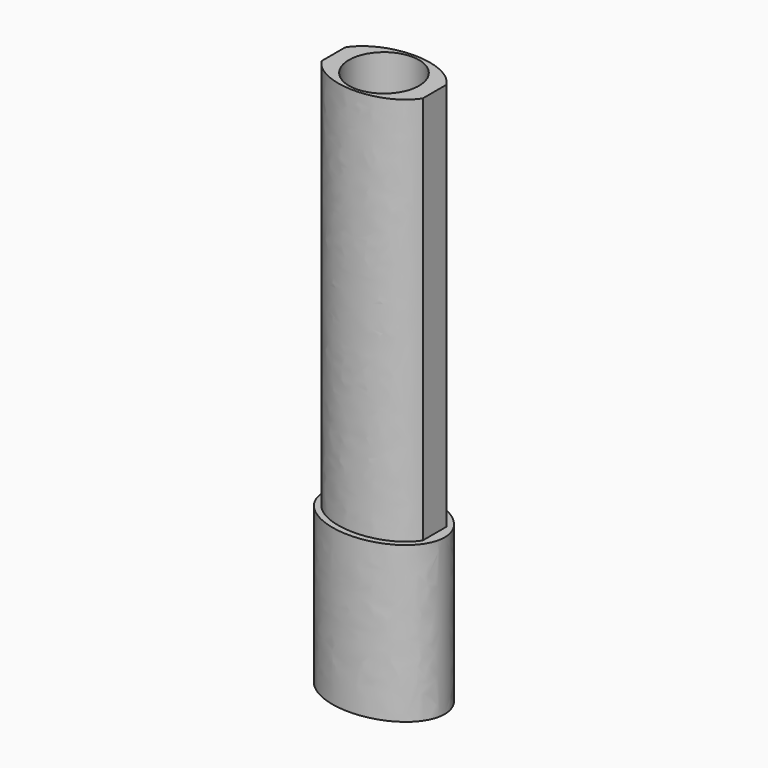
from build123d import *

# Parameters (mm, degrees)
F1_DEPTH = 40
F3_DEPTH = 100
F4_D     = 18


with BuildPart() as f1:
    # F0 (on Top) → F1 (new body)
    with BuildSketch(Plane.XY):
        with BuildLine():
            add(Edge.make_bspline(
                [(15.6, 0), (15.6, 19.4855715851), (-7.8, 9.7427857926), (-31.2, 0), (-7.8, -9.7427857926), (15.6, -19.4855715851), (15.6, 0)],
                knots=[0, 0, 0, 2.0943951024, 2.0943951024, 4.1887902048, 4.1887902048, 6.2831853072, 6.2831853072, 6.2831853072], degree=2, weights=[1, 0.5, 1, 0.5, 1, 0.5, 1]))
        make_face()
    extrude(amount=F1_DEPTH)

    # F2 (on face) → F3 (join)
    with BuildSketch(Plane.XY.offset(40)):
        with BuildLine():
            Line((13, -3.7754305964), (13, 3.7754305964))
            add(Edge.make_bspline(
                [(13, 3.7754305964), (0, 25.1792471276), (-13, 3.7754305964)],
                knots=[0.3976184106, 0.3976184106, 0.3976184106, 2.743974243, 2.743974243, 2.743974243], degree=2, weights=[1, 0.3872236509, 1]))
            Line((-13, 3.7754305964), (-13, -3.7754305964))
            add(Edge.make_bspline(
                [(-13, -3.7754305964), (0, -25.1792471276), (13, -3.7754305964)],
                knots=[3.5392110642, 3.5392110642, 3.5392110642, 5.8855668966, 5.8855668966, 5.8855668966], degree=2, weights=[1, 0.3872236509, 1]))
        make_face()
    extrude(amount=F3_DEPTH)

    # F4 (through all)
    with Locations(Plane(origin=(0, 0, 0), x_dir=(1, 0, 0), z_dir=(0, 0, -1))):
        with Locations((0, 0)):
            Hole(F4_D / 2)


solid = f1.part
